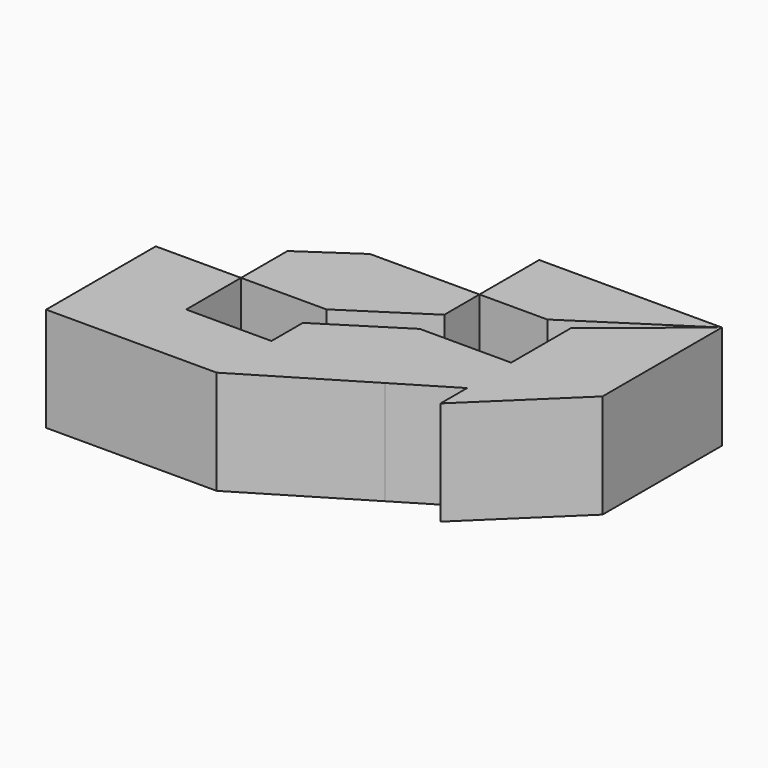
from build123d import *

# Parameters (mm, degrees)
F1_DEPTH = 25.4


with BuildPart() as f1:
    # F0 (on Top) → F1 (new body)
    with BuildSketch(Plane.XY):
        Polygon((8.7332976982, 19.8821946979), (-18.0073068038, 19.8821946979), (-31.0310907662, 11.0132374132), (-31.0310907662, -3.1588526908), (-10.2198235691, -3.1588526908), (8.7332976982, 9.144048138), align=None)
    extrude(amount=F1_DEPTH)


with BuildPart() as f1b:
    # F0 (on Top) → F1, piece 2 (new body)
    with BuildSketch(Plane.XY):
        Polygon((31.0310907662, 1.672334969), (8.7332976982, 1.672334969), (-10.2198235691, -10.304178298), (-10.2198235691, -19.8821946979), (17.5441748335, -19.8821946979), (31.0310907662, -11.7584977976), align=None)
        Polygon((53.3288838342, 1.672334969), (53.3288838342, 38.0920544267), (31.0310907662, 19.8821946979), (31.0310907662, 1.672334969), align=None)
        Polygon((31.0310907662, -11.7584977976), (53.3288838342, 1.672334969), (31.0310907662, 1.672334969), align=None)
        Polygon((31.0310907662, -19.8821946979), (53.3288838342, 1.672334969), (31.0310907662, -11.7584977976), align=None)
        Polygon((-25.3772656626, -19.8821946979), (-51.8423579633, -36.6055367049), (-10.2198235691, -36.6055367049), (-10.2198235691, -19.8821946979), align=None)
        Polygon((-10.2198235691, -19.8821946979), (-10.2198235691, -36.6055367049), (17.5441748335, -19.8821946979), align=None)
        Polygon((-31.0310907662, -19.8821946979), (-31.0310907662, -3.1588526908), (-51.8423579633, -3.1588526908), (-51.8423579633, -36.6055367049), (-25.3772656626, -19.8821946979), align=None)
    extrude(amount=F1_DEPTH)


with BuildPart() as f1c:
    # F0 (on Top) → F1, piece 3 (new body)
    with BuildSketch(Plane.XY):
        Polygon((53.3288838342, 38.0920544267), (8.7332976982, 38.0920544267), (8.7332976982, 19.8821946979), (25.2758510981, 19.8821946979), align=None)
    extrude(amount=F1_DEPTH)


solid = Compound([f1.part, f1b.part, f1c.part])
